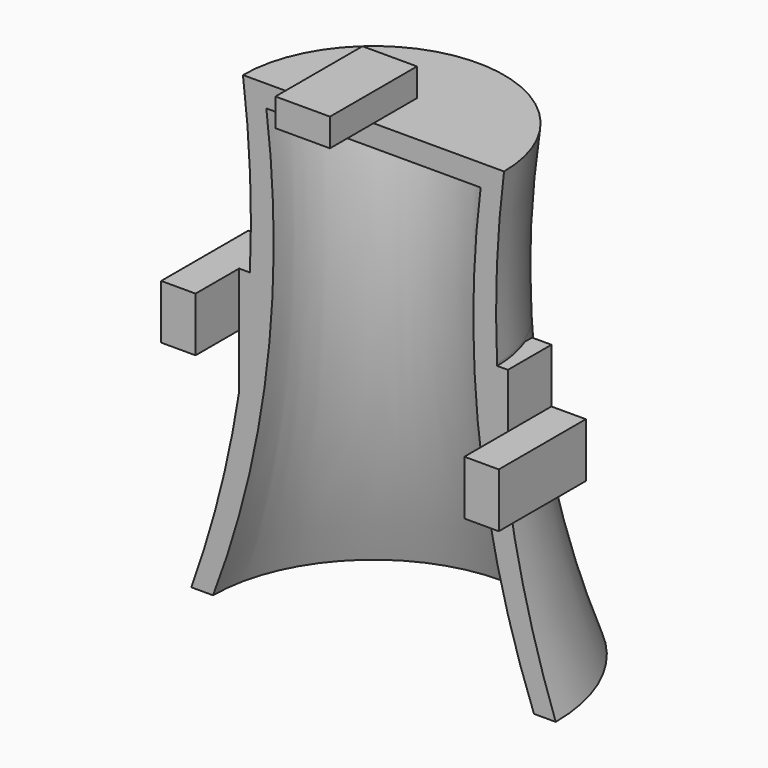
from build123d import *

# Parameters (mm, degrees)
F1_ANGLE = 180
F2_DEPTH = 5.08
F0_W     = 3.2131851465
F0_H     = 5.0839147031
F0_H_2   = 5.0760852969
F0_W_2   = 5.092757754
F0_H_3   = 2.607280938
F3_DEPTH = 5.08


with BuildPart() as f1:
    # F0 (on Front) → F1 (revolve)
    with BuildSketch(Plane.XZ):
        with BuildLine():
            Line((0, 7.1843154948), (0, 9.2163154948))
            Line((0, 9.2163154948), (-5.092757754, 9.2163154948))
            Line((-5.092757754, 9.2163154948), (-12.192, 9.2163154948))
            ThreePointArc((-12.192, 9.2163154948), (-11.524233364, 1.2175235719), (-11.5414183138, -6.8090752834))
            Line((-11.5414183138, -6.8090752834), (-10.7442, -6.8090752834))
            Line((-10.7442, -6.8090752834), (-10.7442, -16.9690752834))
            Line((-10.7442, -16.9690752834), (-12.55264014, -16.9690752834))
            ThreePointArc((-12.55264014, -16.9690752834), (-14.3638496802, -25.8279076884), (-17.018, -34.4716845052))
            Line((-17.018, -34.4716845052), (-14.986, -34.4716845052))
            ThreePointArc((-14.986, -34.4716845052), (-9.9329646545, -13.9500940953), (-10.0076, 7.1843154948))
            Line((-10.0076, 7.1843154948), (0, 7.1843154948))
        make_face()
        with BuildLine():
            Line((-10.7442, -6.8090752834), (-11.5414183138, -6.8090752834))
            ThreePointArc((-11.5414183138, -6.8090752834), (-11.908955512, -11.9028177198), (-12.55264014, -16.9690752834))
            Line((-12.55264014, -16.9690752834), (-10.7442, -16.9690752834))
            Line((-10.7442, -16.9690752834), (-10.7442, -6.8090752834))
        make_face()
    revolve(axis=Axis((0, 0, 8.2003154948), (0, 0, -1)), revolution_arc=F1_ANGLE)

    # F0 (on Front) → F2 (join)
    with BuildSketch(Plane.XZ):
        with BuildLine():
            ThreePointArc((-12.55264014, -16.9690752834), (-11.908955512, -11.9028177198), (-11.5414183138, -6.8090752834))
            Line((-11.5414183138, -6.8090752834), (-12.55264014, -6.8090752834))
            Line((-12.55264014, -6.8090752834), (-12.55264014, -11.8851605803))
            Line((-12.55264014, -11.8851605803), (-12.55264014, -16.9690752834))
        make_face()
        with BuildLine():
            Line((-10.7442, -6.8090752834), (-11.5414183138, -6.8090752834))
            ThreePointArc((-11.5414183138, -6.8090752834), (-11.908955512, -11.9028177198), (-12.55264014, -16.9690752834))
            Line((-12.55264014, -16.9690752834), (-10.7442, -16.9690752834))
            Line((-10.7442, -16.9690752834), (-10.7442, -6.8090752834))
        make_face()
        Polygon((12.55264014, -6.9773710036), (10.7442, -6.9773710036), (10.7442, -17.1373710036), (12.55264014, -17.1373710036), (12.55264014, -12.0534563005), align=None)
    extrude(amount=-F2_DEPTH)

    # F0 (on Front) → F3 (join, symmetric)
    with BuildSketch(Plane.XZ):
        with Locations((14.1592327132, -14.5954136521)):
            Rectangle(F0_W, F0_H)
        with Locations((-14.1592327132, -9.3471179318)):
            Rectangle(F0_W, F0_H_2)
        with Locations((-2.546378877, 10.5199559638)):
            Rectangle(F0_W_2, F0_H_3)
    extrude(amount=F3_DEPTH, both=True)


solid = f1.part
